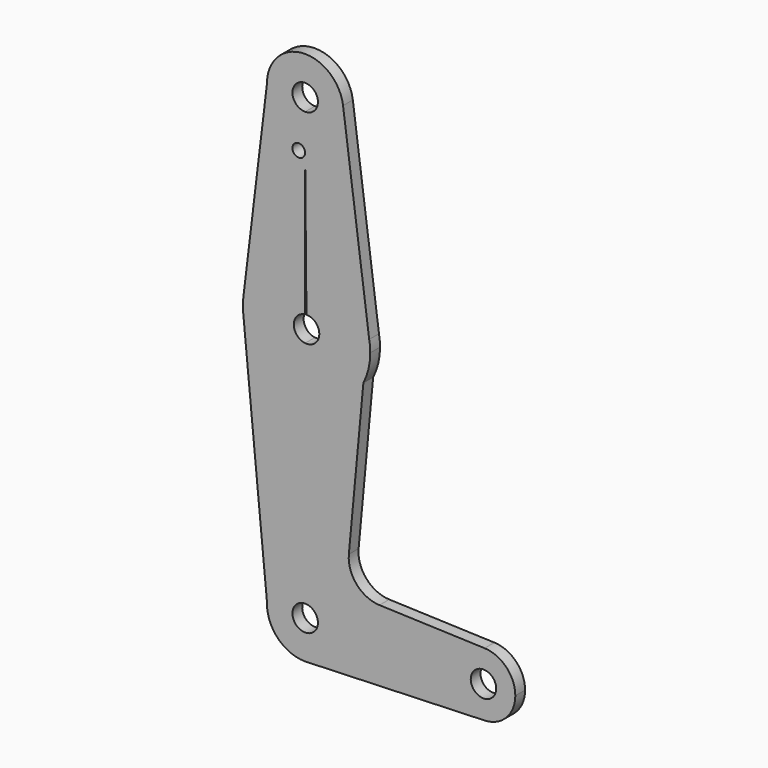
from build123d import *

# Parameters (mm, degrees)
F0_R     = 1.5875
F1_DEPTH = 3.048


with BuildPart() as f1:
    # F0 (on Front) → F1 (new body)
    with BuildSketch(Plane.XZ):
        with BuildLine():
            ThreePointArc((-9.5341186691, 52.2447508267), (-6.7171678622, 45.5597172954), (-0.0094340062, 42.7972561321))
            ThreePointArc((-0.0094340062, 42.7972561321), (6.7257580846, 45.5870640413), (9.5155659938, 52.3222561321))
            ThreePointArc((9.5155659938, 52.3222561321), (9.4949130682, 52.9491625761), (9.4330438542, 53.573350395))
            ThreePointArc((9.4330438542, 53.573350395), (0.5455224312, 61.8310756357), (-9.2422673958, 54.6632842395))
            Line((-9.2422673958, 54.6632842395), (-9.5341186691, 52.2447508267))
        make_face()
        with BuildLine():
            ThreePointArc((3.1655659938, 52.3222561321), (2.235630024, 50.0771921018), (-0.0094340062, 49.1472561321))
            ThreePointArc((-0.0094340062, 49.1472561321), (-2.2544980365, 54.5673201623), (3.1655659938, 52.3222561321))
        make_face(mode=Mode.SUBTRACT)
        with BuildLine():
            ThreePointArc((9.5155659938, 52.3222561321), (6.7257580846, 45.5870640413), (-0.0094340062, 42.7972561321))
            Line((-0.0094340062, 42.7972561321), (-0.0094340062, 38.0458299899))
            Line((-0.0094340062, 38.0458299899), (0.1854236079, 17.3965493596))
            ThreePointArc((0.1854236079, 17.3965493596), (10.4432233162, 13.7633317509), (15.9512497798, 4.3780043978))
            Line((15.9512497798, 4.3780043978), (9.4330438542, 53.573350395))
            ThreePointArc((9.4330438542, 53.573350395), (9.4949130682, 52.9491625761), (9.5155659938, 52.3222561321))
        make_face()
        with BuildLine():
            Line((-0.0094340062, 38.0458299899), (-0.0094340062, 42.7972561321))
            ThreePointArc((-0.0094340062, 42.7972561321), (-6.7171678622, 45.5597172954), (-9.5341186691, 52.2447508267))
            Line((-9.5341186691, 52.2447508267), (-15.4254400006, 3.4241398184))
            ThreePointArc((-15.4254400006, 3.4241398184), (-10.3245703873, 13.2859483017), (-0.0094340062, 17.3935143465))
            Line((-0.0094340062, 17.3935143465), (-0.0094340062, 38.0458299899))
        make_face()
        with Locations((-1.6167838335, 40.1418484393)):
            Circle(F0_R, mode=Mode.SUBTRACT)
        with BuildLine():
            ThreePointArc((-9.2422673958, 54.6632842395), (-9.4658311447, 53.4633863439), (-9.5341186691, 52.2447508267))
            Line((-9.5341186691, 52.2447508267), (-9.2422673958, 54.6632842395))
        make_face()
        with BuildLine():
            Line((-0.0094340062, 4.678493973), (-0.0094340062, 17.3935143465))
            ThreePointArc((-0.0094340062, 17.3935143465), (-10.3245703873, 13.2859483017), (-15.4254400006, 3.4241398184))
            ThreePointArc((-15.4254400006, 3.4241398184), (-15.5386299257, 1.7131836533), (-15.4666248709, 0))
            ThreePointArc((-15.4666248709, 0), (-10.4652805135, -10.1123806344), (-0.0094340062, -14.3490020823))
            Line((-0.0094340062, -14.3490020823), (-0.0094340062, -1.6339817089))
            ThreePointArc((-0.0094340062, -1.6339817089), (-2.8397781032, 1.5222561321), (-0.0094340062, 4.678493973))
        make_face()
        with BuildLine():
            ThreePointArc((15.9512497798, 4.3780043978), (10.4432233162, 13.7633317509), (0.1854236079, 17.3965493596))
            Line((0.1854236079, 17.3965493596), (0.305262239, 4.6971147776))
            ThreePointArc((0.305262239, 4.6971147776), (2.5696684822, 3.7778876305), (3.5102218968, 1.5222561321))
            ThreePointArc((3.5102218968, 1.5222561321), (2.4549320784, -0.8415234148), (-0.0094340062, -1.6339817089))
            Line((-0.0094340062, -1.6339817089), (-0.0094340062, -14.3490020823))
            ThreePointArc((-0.0094340062, -14.3490020823), (8.4967936253, -12.09407127), (14.495092683, -5.6550472833))
            ThreePointArc((14.495092683, -5.6550472833), (15.7754870132, -2.1674373693), (16.2102218968, 1.5222561321))
            ThreePointArc((16.2102218968, 1.5222561321), (16.1453463055, 2.9559894332), (15.9512497798, 4.3780043978))
        make_face()
        with BuildLine():
            ThreePointArc((-0.0094340062, -14.3490020823), (-10.4652805135, -10.1123806344), (-15.4666248709, 0))
            Line((-15.4666248709, 0), (-9.5284841955, -61.6411305964))
            ThreePointArc((-9.5284841955, -61.6411305964), (-6.6245448741, -55.1245742942), (-0.0094340062, -52.4527438679))
            Line((-0.0094340062, -52.4527438679), (-0.0094340062, -14.3490020823))
        make_face()
        with BuildLine():
            ThreePointArc((14.495092683, -5.6550472833), (8.4967936253, -12.09407127), (-0.0094340062, -14.3490020823))
            Line((-0.0094340062, -14.3490020823), (-0.0094340062, -52.4527438679))
            ThreePointArc((-0.0094340062, -52.4527438679), (6.7257580846, -55.2425517771), (9.5155659938, -61.9777438679))
            Line((9.5155659938, -61.9777438679), (36.5030659938, -61.9777438679))
            ThreePointArc((36.5030659938, -61.9777438679), (38.9286766306, -56.2660907011), (44.7230299367, -54.0452713422))
            Line((44.7230299367, -54.0452713422), (18.5079615272, -53.1084211888))
            ThreePointArc((18.5079615272, -53.1084211888), (12.8201303591, -50.41150042), (10.8761098535, -44.4243818055))
            Line((10.8761098535, -44.4243818055), (14.495092683, -5.6550472833))
        make_face()
        with BuildLine():
            ThreePointArc((-0.0094340062, -52.4527438679), (-6.6245448741, -55.1245742942), (-9.5284841955, -61.6411305964))
            ThreePointArc((-9.5284841955, -61.6411305964), (-6.8593267813, -68.5962477752), (0, -71.502739196))
            Line((0, -71.502739196), (0.6586396335, -71.4792859855))
            ThreePointArc((0.6586396335, -71.4792859855), (6.9579552616, -68.4724426131), (9.5155659938, -61.9777438679))
            Line((9.5155659938, -61.9777438679), (3.1655659938, -61.9777438679))
            ThreePointArc((3.1655659938, -61.9777438679), (-2.2544980365, -64.2228078982), (-0.0094340062, -58.8027438679))
            Line((-0.0094340062, -58.8027438679), (-0.0094340062, -52.4527438679))
        make_face()
        with BuildLine():
            Line((0.6586396335, -71.4792859855), (0, -71.502739196))
            ThreePointArc((0, -71.502739196), (0.3295227253, -71.4967108988), (0.6586396335, -71.4792859855))
        make_face()
        with BuildLine():
            Line((36.5030659938, -61.9777438679), (9.5155659938, -61.9777438679))
            ThreePointArc((9.5155659938, -61.9777438679), (6.9579552616, -68.4724426131), (0.6586396335, -71.4792859855))
            Line((0.6586396335, -71.4792859855), (44.7230299367, -69.9102163936))
            ThreePointArc((44.7230299367, -69.9102163936), (38.9286766306, -67.6893970348), (36.5030659938, -61.9777438679))
        make_face()
        with BuildLine():
            ThreePointArc((44.7230299367, -54.0452713422), (38.9286766306, -56.2660907011), (36.5030659938, -61.9777438679))
            ThreePointArc((36.5030659938, -61.9777438679), (38.9286766306, -67.6893970348), (44.7230299367, -69.9102163936))
            ThreePointArc((44.7230299367, -69.9102163936), (50.1522191606, -67.4896332311), (52.3780659938, -61.9777438679))
            ThreePointArc((52.3780659938, -61.9777438679), (50.1522191606, -56.4658545048), (44.7230299367, -54.0452713422))
        make_face()
        with BuildLine():
            ThreePointArc((47.6155659938, -61.9777438679), (44.4405659938, -65.1527438679), (41.2655659938, -61.9777438679))
            ThreePointArc((41.2655659938, -61.9777438679), (44.4405659938, -58.8027438679), (47.6155659938, -61.9777438679))
        make_face(mode=Mode.SUBTRACT)
        with BuildLine():
            ThreePointArc((9.5155659938, -61.9777438679), (6.7257580846, -55.2425517771), (-0.0094340062, -52.4527438679))
            Line((-0.0094340062, -52.4527438679), (-0.0094340062, -58.8027438679))
            ThreePointArc((-0.0094340062, -58.8027438679), (2.235630024, -59.7326798377), (3.1655659938, -61.9777438679))
            Line((3.1655659938, -61.9777438679), (9.5155659938, -61.9777438679))
        make_face()
    extrude(amount=F1_DEPTH)


solid = f1.part
